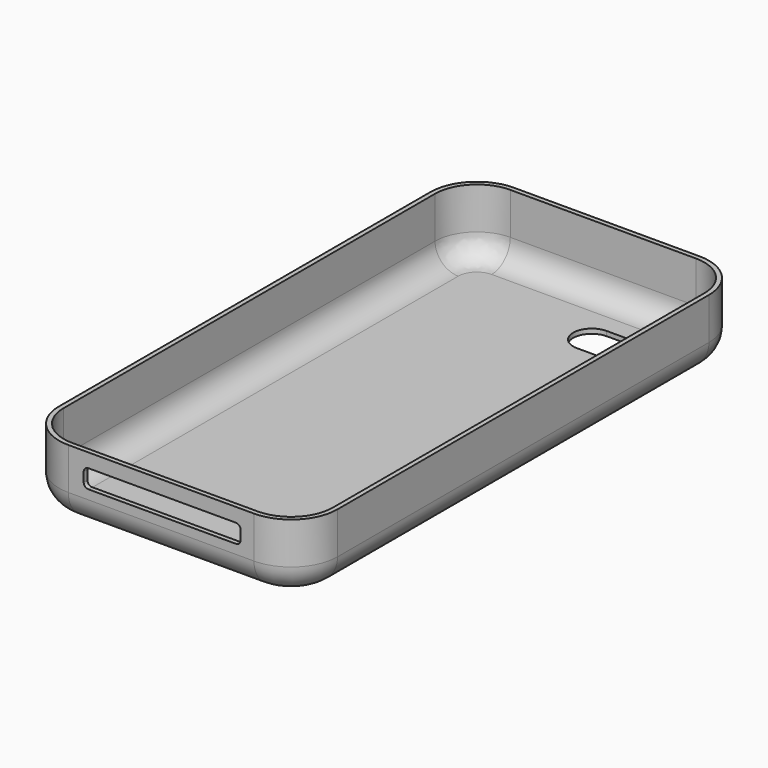
from build123d import *

# Parameters (mm, degrees)
F0_W     = 76.2
F0_H     = 152.4
F1_DEPTH = 19.05
F2_R     = 12.7
F3_R     = 7.62
F4_T     = -1.27
F6_DEPTH = 25.4
F8_DEPTH = 25.4


with BuildPart() as f1:
    # F0 (on Top) → F1 (new body)
    with BuildSketch(Plane.XY):
        with Locations((-12.107471, 8.866039)):
            Rectangle(F0_W, F0_H)
    extrude(amount=F1_DEPTH)

    # F2
    f2_edges = [f1.edges().sort_by_distance(p)[0] for p in [
        (25.992529, 85.066039, 9.525),
        (25.992529, -67.333961, 9.525),
        (-50.207471, 85.066039, 9.525),
        (-50.207471, -67.333961, 9.525),
    ]]
    fillet(f2_edges, radius=F2_R)

    # F3
    f3_edges = [f1.edges().sort_by_distance(p)[0] for p in [
        (-50.207471, 8.866039, 0),
        (-46.487727, 81.346295, 0),
        (-46.487727, -63.614217, 0),
        (-12.107471, 85.066039, 0),
        (-12.107471, -67.333961, 0),
        (22.272785, 81.346295, 0),
        (22.272785, -63.614217, 0),
        (25.992529, 8.866039, 0),
    ]]
    fillet(f3_edges, radius=F3_R)

    # F4
    f4_openings = [f1.faces().sort_by_distance(p)[0] for p in [
        (-12.107471, 8.866039, 19.05),
    ]]
    offset(amount=F4_T, openings=f4_openings)

    # F5 (on face) → F6 (cut)
    with BuildSketch(Plane(origin=(0, 0, 0), x_dir=(1, 0, 0), z_dir=(0, 0, -1))):
        with BuildLine():
            Line((-1.987378, -72.366039), (8.199227, -72.366039))
            ThreePointArc((8.199227, -72.366039), (13.292529, -67.272736), (8.199227, -62.179434))
            Line((8.199227, -62.179434), (-1.987378, -62.179434))
            ThreePointArc((-1.987378, -62.179434), (-7.08068, -67.272736), (-1.987378, -72.366039))
        make_face()
    extrude(amount=-F6_DEPTH, mode=Mode.SUBTRACT)

    # F7 (on face) → F8 (cut)
    with BuildSketch(Plane.XZ.offset(67.333961)):
        with BuildLine():
            Line((8.356589, 15.24), (-32.028437, 15.24))
            ThreePointArc((-32.028437, 15.24), (-32.926462, 14.868026), (-33.298437, 13.97))
            Line((-33.298437, 13.97), (-33.298437, 11.43))
            ThreePointArc((-33.298437, 11.43), (-32.926462, 10.531974), (-32.028437, 10.16))
            Line((-32.028437, 10.16), (8.356589, 10.16))
            ThreePointArc((8.356589, 10.16), (9.254614, 10.531974), (9.626589, 11.43))
            Line((9.626589, 11.43), (9.626589, 13.97))
            ThreePointArc((9.626589, 13.97), (9.254614, 14.868026), (8.356589, 15.24))
        make_face()
    extrude(amount=-F8_DEPTH, mode=Mode.SUBTRACT)


solid = f1.part
